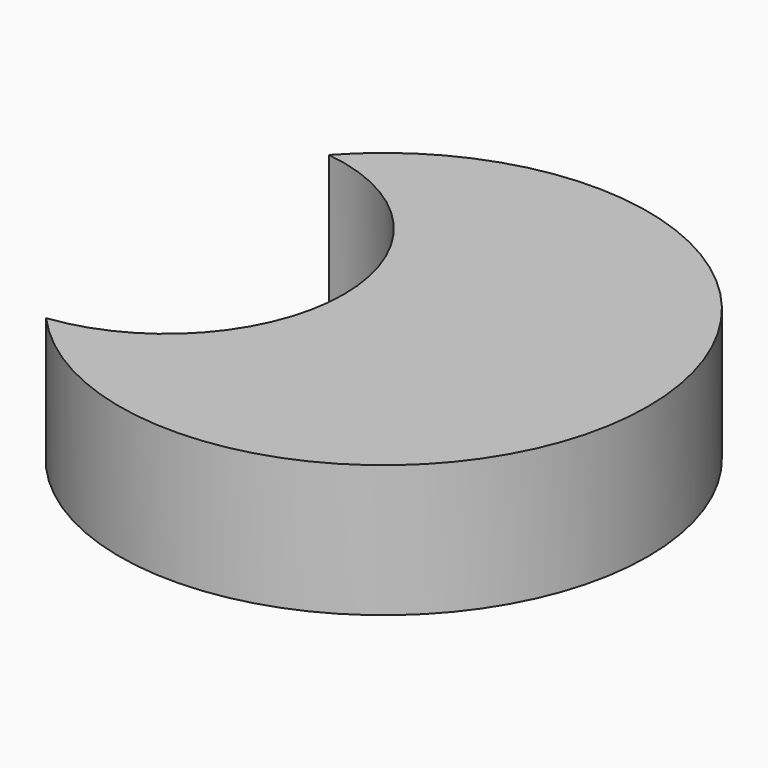
from build123d import *

# Parameters (mm, degrees)
F1_DEPTH = 25.4


with BuildPart() as f1:
    # F0 (on Top) → F1 (new body)
    with BuildSketch(Plane.XY):
        with BuildLine():
            ThreePointArc((-37.751845, 33.991737), (-7.660998, 0), (-37.751845, -33.991737))
            ThreePointArc((-37.751845, -33.991737), (50.8, 0), (-37.751845, 33.991737))
        make_face()
    extrude(amount=F1_DEPTH)


solid = f1.part
